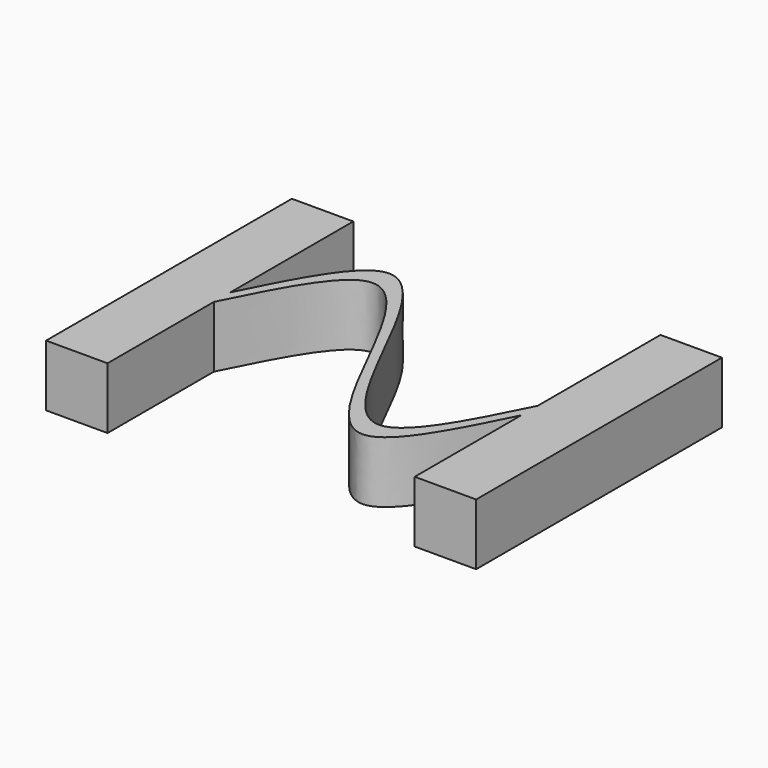
from build123d import *

# Parameters (mm, degrees)
F1_DEPTH = 3


with BuildPart() as f1:
    # F0 (on Top) → F1 (new body)
    with BuildSketch(Plane.XY):
        Polygon((0, 15), (0, 0), (3, 0), (3, 6.5), (3, 7.5), (3, 15), align=None)
        with BuildLine():
            Line((3, 7.5), (3, 6.5))
            add(Edge.make_bspline(
                [(3, 6.5), (4.25, 9), (5.5, 11.5), (6.75, 11.5)],
                knots=[0, 0, 0, 0, 6.25, 6.25, 6.25, 6.25], degree=3))
            Line((6.75, 11.5), (6.75, 12.5))
            add(Edge.make_bspline(
                [(3, 7.5), (4.25, 10), (5.5, 12.5), (6.75, 12.5)],
                knots=[0, 0, 0, 0, 6.25, 6.25, 6.25, 6.25], degree=3))
        make_face()
        with BuildLine():
            Line((6.75, 12.5), (6.75, 11.5))
            add(Edge.make_bspline(
                [(6.75, 11.5), (8, 11.5), (9.25, 9), (10.5, 6.5)],
                knots=[6.25, 6.25, 6.25, 6.25, 12.5, 12.5, 12.5, 12.5], degree=3))
            Line((10.5, 6.5), (10.5, 7.5))
            add(Edge.make_bspline(
                [(6.75, 12.5), (8, 12.5), (9.25, 10), (10.5, 7.5)],
                knots=[6.25, 6.25, 6.25, 6.25, 12.5, 12.5, 12.5, 12.5], degree=3))
        make_face()
        with BuildLine():
            Line((10.5, 7.5), (10.5, 6.5))
            add(Edge.make_bspline(
                [(10.5, 6.5), (11.75, 4), (13, 1.5), (14.25, 1.5)],
                knots=[12.5, 12.5, 12.5, 12.5, 18.75, 18.75, 18.75, 18.75], degree=3))
            Line((14.25, 1.5), (14.25, 2.5))
            add(Edge.make_bspline(
                [(10.5, 7.5), (11.75, 5), (13, 2.5), (14.25, 2.5)],
                knots=[12.5, 12.5, 12.5, 12.5, 18.75, 18.75, 18.75, 18.75], degree=3))
        make_face()
        with BuildLine():
            Line((14.25, 2.5), (14.25, 1.5))
            add(Edge.make_bspline(
                [(14.25, 1.5), (15.5, 1.5), (16.75, 4), (18, 6.5)],
                knots=[18.75, 18.75, 18.75, 18.75, 25, 25, 25, 25], degree=3))
            Line((18, 6.5), (18, 7.5))
            add(Edge.make_bspline(
                [(14.25, 2.5), (15.5, 2.5), (16.75, 5), (18, 7.5)],
                knots=[18.75, 18.75, 18.75, 18.75, 25, 25, 25, 25], degree=3))
        make_face()
        Polygon((18, 7.5), (18, 6.5), (18, 0), (21, 0), (21, 15), (18, 15), align=None)
    extrude(amount=F1_DEPTH)


solid = f1.part
